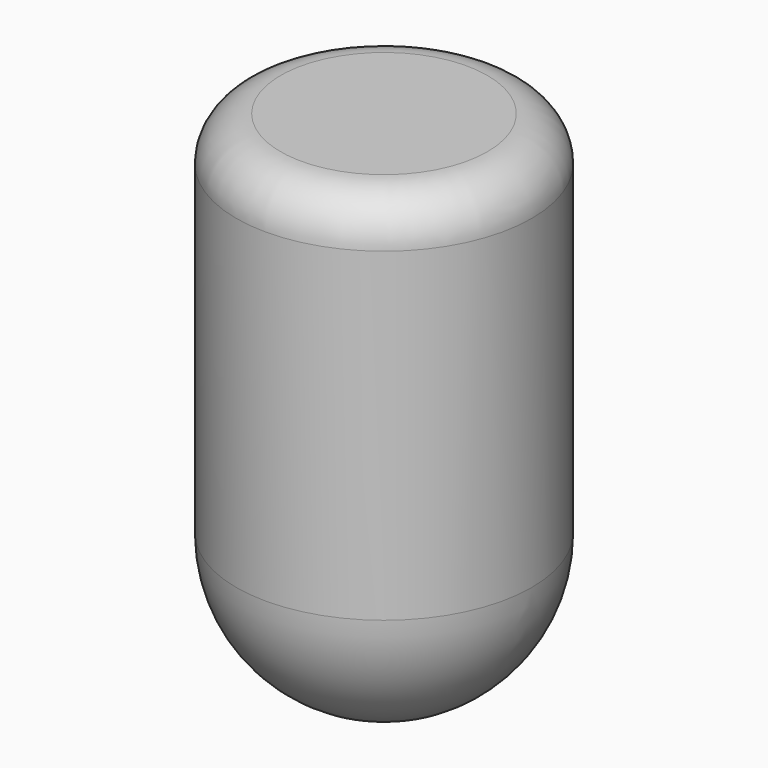
from build123d import *

# Parameters (mm, degrees)
CYLINDER003_R     = 100
CYLINDER003_DEPTH = 350
FILLET008_1_R     = 100
FILLET008_2_R     = 30


with BuildPart() as part:
    # Cylinder003 → Cylinder003 (new body)
    with BuildSketch(Plane(origin=(-350, 0, 1730), x_dir=(1, 0, 0), z_dir=(0, 0, 1))):
        Circle(CYLINDER003_R)
    extrude(amount=CYLINDER003_DEPTH)

    # Fillet008 1
    fillet008_1_edges = [part.edges().sort_by_distance(p)[0] for p in [
        (-450, 0, 1730),
    ]]
    fillet(fillet008_1_edges, radius=FILLET008_1_R)

    # Fillet008 2
    fillet008_2_edges = [part.edges().sort_by_distance(p)[0] for p in [
        (-450, 0, 2080),
    ]]
    fillet(fillet008_2_edges, radius=FILLET008_2_R)


solid = part.part
